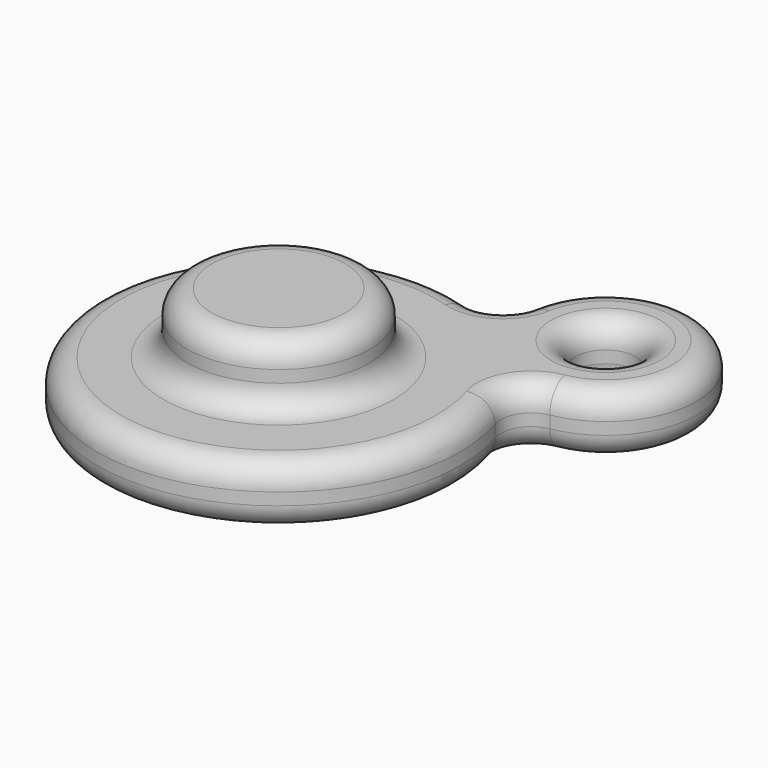
from build123d import *

# Parameters (mm, degrees)
F0_R     = 6.35
F2_DEPTH = 12.7
F1_R     = 19.05
F3_DEPTH = 25.4
F4_R     = 5.08


with BuildPart() as f2:
    # F0 (on Top) → F2 (new body)
    with BuildSketch(Plane.XY):
        with BuildLine():
            ThreePointArc((19.335596, 41.386279), (16.396387, 37.066048), (11.212109, 36.412891))
            ThreePointArc((11.212109, 36.412891), (-26.940768, -26.940768), (36.412891, 11.212109))
            ThreePointArc((36.412891, 11.212109), (37.066048, 16.396387), (41.386279, 19.335596))
            ThreePointArc((41.386279, 19.335596), (51.570384, 51.570384), (19.335596, 41.386279))
        make_face()
        with Locations((38.1, 38.1)):
            Circle(F0_R, mode=Mode.SUBTRACT)
    extrude(amount=F2_DEPTH)

    # F1 (on Top) → F3 (join)
    with BuildSketch(Plane.XY):
        Circle(F1_R)
    extrude(amount=F3_DEPTH)

    # F4
    f4_edges = [f2.edges().sort_by_distance(p)[0] for p in [
        (-19.05, 0, 25.4),
        (-26.940768, -26.940768, 12.7),
        (-26.940768, -26.940768, 0),
        (-19.05, 0, 12.7),
        (31.75, 38.1, 12.7),
        (31.75, 38.1, 0),
    ]]
    fillet(f4_edges, radius=F4_R)


solid = f2.part
